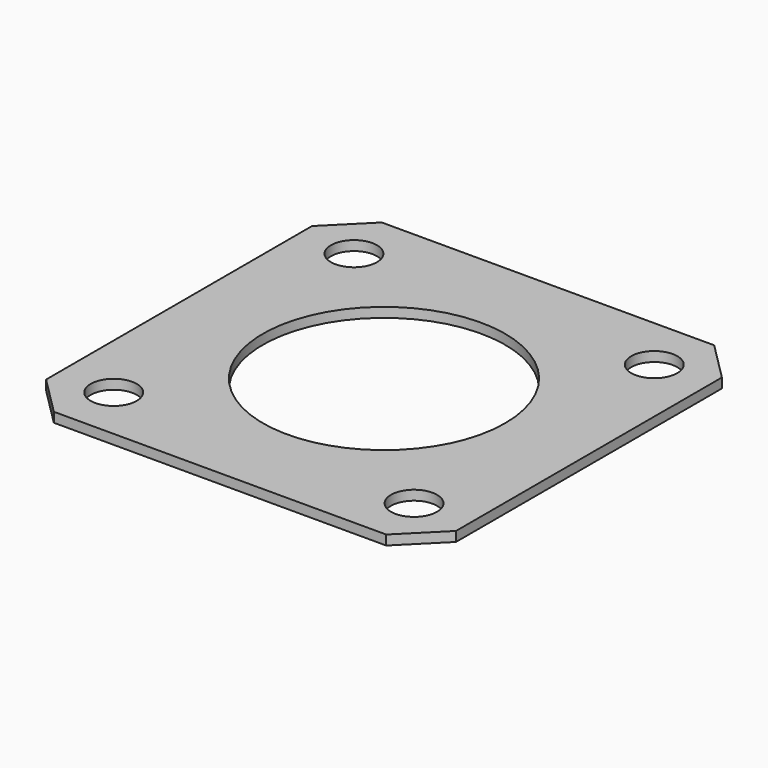
from build123d import *

# Parameters (mm, degrees)
F0_R     = 2.375
F0_R_2   = 12.5
F1_DEPTH = 1


with BuildPart() as f1:
    # F0 (on Top) → F1 (new body)
    with BuildSketch(Plane.XY):
        Polygon((0, 4), (4, 0), (38.3, 0), (42.3, 4), (42.3, 38.3), (38.3, 42.3), (4, 42.3), (0, 38.3), align=None)
        with Locations((5.655, 5.655)):
            Circle(F0_R, mode=Mode.SUBTRACT)
        with Locations((36.645, 5.655)):
            Circle(F0_R, mode=Mode.SUBTRACT)
        with Locations((5.655, 36.645)):
            Circle(F0_R, mode=Mode.SUBTRACT)
        with Locations((21.15, 21.15)):
            Circle(F0_R_2, mode=Mode.SUBTRACT)
        with Locations((36.645, 36.645)):
            Circle(F0_R, mode=Mode.SUBTRACT)
    extrude(amount=-F1_DEPTH)


solid = f1.part
